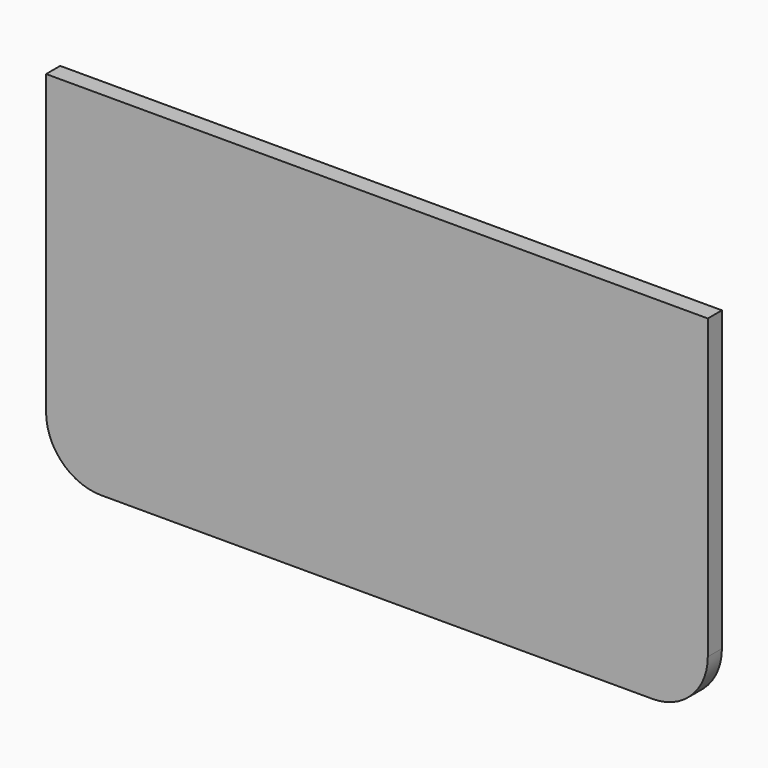
from build123d import *

# Parameters (mm, degrees)
F0_W     = 300
F0_H     = 160
F1_DEPTH = 4
F2_R     = 25


with BuildPart() as f1:
    # F0 (on Front) → F1 (new body, symmetric)
    with BuildSketch(Plane.XZ):
        Rectangle(F0_W, F0_H)
    extrude(amount=F1_DEPTH, both=True)

    # F2
    f2_edges = [f1.edges().sort_by_distance(p)[0] for p in [
        (150, 0, -80),
        (-150, 0, -80),
    ]]
    fillet(f2_edges, radius=F2_R)


solid = f1.part
